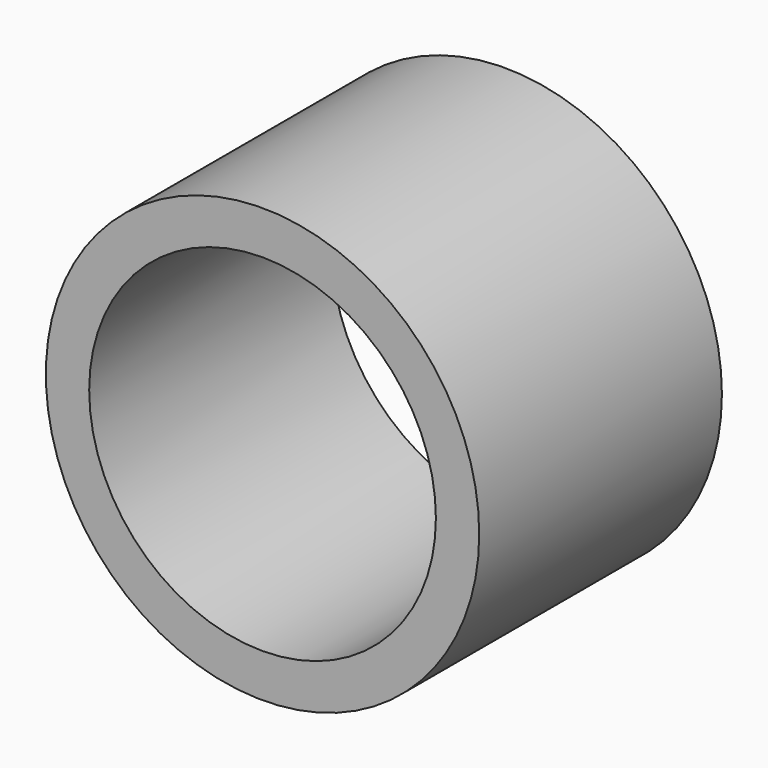
from build123d import *

# Parameters (mm, degrees)
F1_DEPTH = 7


with BuildPart() as f1:
    # F0 (on Front) → F1 (new body)
    with BuildSketch(Plane.XZ):
        with BuildLine():
            ThreePointArc((-5, 0), (0, -5), (5, 0))
            ThreePointArc((5, 0), (0, 5), (-5, 0))
        make_face()
        with BuildLine():
            ThreePointArc((4, 0), (0, -4), (-4, 0))
            ThreePointArc((-4, 0), (0, 4), (4, 0))
        make_face(mode=Mode.SUBTRACT)
    extrude(amount=F1_DEPTH)


solid = f1.part
